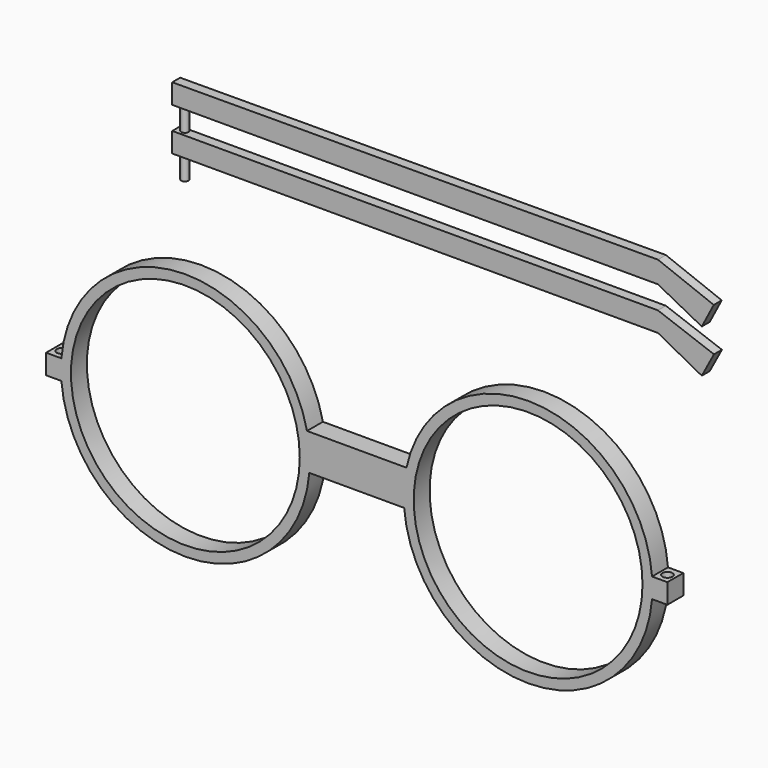
from build123d import *

# Parameters (mm, degrees)
F1_DEPTH  = 5.08
F2_R      = 29.21
F3_DEPTH  = 25.4
F4_R      = 1.27
F5_DEPTH  = 25.4
F7_DEPTH  = 2.54
F6_W      = 123.9972203185
F6_H      = 5.08
F8_R      = 0.9525
F9_DEPTH  = 5.588
F10_R     = 0.9525
F11_DEPTH = 5.588


with BuildPart() as f1:
    # F0 (on Front) → F1 (new body)
    with BuildSketch(Plane.XZ):
        with BuildLine():
            ThreePointArc((-3.7277518922, -2.6140995437), (-3.6469152678, -1.3081606084), (-3.6199544637, 0))
            ThreePointArc((-3.6199544637, 0), (-3.7945023837, 3.3246542598), (-4.3162269643, 6.6127534653))
            Line((-4.3162269643, 6.6127534653), (-3.7277518922, -2.6140995437))
        make_face()
        with BuildLine():
            ThreePointArc((-4.3162269643, 6.6127534653), (-3.7945023837, 3.3246542598), (-3.6199544637, 0))
            ThreePointArc((-3.6199544637, 0), (-3.6469152678, -1.3081606084), (-3.7277518922, -2.6140995437))
            Line((-3.7277518922, -2.6140995437), (20.4952979636, -2.6140995437))
            ThreePointArc((20.4952979636, -2.6140995437), (20.4518789383, 2.0208621982), (21.0837730357, 6.6127534653))
            Line((21.0837730357, 6.6127534653), (-4.3162269643, 6.6127534653))
        make_face()
        with BuildLine():
            Line((-3.7277518922, -2.6140995437), (-4.3162269643, 6.6127534653))
            ThreePointArc((-4.3162269643, 6.6127534653), (-37.4279123251, 31.6832338855), (-67.0181913814, 2.54))
            Line((-67.0181913814, 2.54), (-63.3099544637, 2.54))
            Line((-63.3099544637, 2.54), (-63.3099544637, -2.54))
            Line((-63.3099544637, -2.54), (-67.0181913814, -2.54))
            ThreePointArc((-67.0181913814, -2.54), (-35.4071268852, -31.7499782395), (-3.7277518922, -2.6140995437))
        make_face()
        with BuildLine():
            Line((-63.3099544637, 2.54), (-67.0181913814, 2.54))
            ThreePointArc((-67.0181913814, 2.54), (-67.1199544637, 0), (-67.0181913814, -2.54))
            Line((-67.0181913814, -2.54), (-63.3099544637, -2.54))
            Line((-63.3099544637, -2.54), (-63.3099544637, 2.54))
        make_face()
        with BuildLine():
            ThreePointArc((-67.0181913814, -2.54), (-67.1199544637, 0), (-67.0181913814, 2.54))
            Line((-67.0181913814, 2.54), (-70.9299544637, 2.54))
            Line((-70.9299544637, 2.54), (-70.9299544637, -2.54))
            Line((-70.9299544637, -2.54), (-67.0181913814, -2.54))
        make_face()
        with BuildLine():
            Line((20.4952979636, -2.6140995437), (21.0837730357, 6.6127534653))
            ThreePointArc((21.0837730357, 6.6127534653), (20.4518789383, 2.0208621982), (20.4952979636, -2.6140995437))
        make_face()
        with BuildLine():
            ThreePointArc((83.7857374528, 2.54), (54.1954583966, 31.6832338855), (21.0837730357, 6.6127534653))
            Line((21.0837730357, 6.6127534653), (20.4952979636, -2.6140995437))
            ThreePointArc((20.4952979636, -2.6140995437), (52.1746729567, -31.7499782395), (83.7857374528, -2.54))
            Line((83.7857374528, -2.54), (80.0775005351, -2.54))
            Line((80.0775005351, -2.54), (80.0775005351, 2.54))
            Line((80.0775005351, 2.54), (83.7857374528, 2.54))
        make_face()
        with BuildLine():
            Line((87.6975005351, 2.54), (83.7857374528, 2.54))
            ThreePointArc((83.7857374528, 2.54), (83.8620495637, 1.2710188556), (83.8875005351, 0))
            ThreePointArc((83.8875005351, 0), (83.8620495637, -1.2710188556), (83.7857374528, -2.54))
            Line((83.7857374528, -2.54), (87.6975005351, -2.54))
            Line((87.6975005351, -2.54), (87.6975005351, 2.54))
        make_face()
        with BuildLine():
            ThreePointArc((83.8875005351, 0), (83.8620495637, 1.2710188556), (83.7857374528, 2.54))
            Line((83.7857374528, 2.54), (80.0775005351, 2.54))
            Line((80.0775005351, 2.54), (80.0775005351, -2.54))
            Line((80.0775005351, -2.54), (83.7857374528, -2.54))
            ThreePointArc((83.7857374528, -2.54), (83.8620495637, -1.2710188556), (83.8875005351, 0))
        make_face()
    extrude(amount=F1_DEPTH)

    # F2 (on face) → F3 (cut)
    with BuildSketch(Plane.XZ.offset(5.08)):
        with Locations((-35.3699544637, 0)):
            Circle(F2_R)
        with Locations((52.1375005351, 0)):
            Circle(F2_R)
    extrude(amount=-F3_DEPTH, mode=Mode.SUBTRACT)

    # F4 (on face) → F5 (cut)
    with BuildSketch(Plane.XY.offset(2.54)):
        with Locations((-68.9740729225, -2.54)):
            Circle(F4_R)
        with Locations((85.7350602746, -2.603512723)):
            Circle(F4_R)
    extrude(amount=-F5_DEPTH, mode=Mode.SUBTRACT)


with BuildPart() as f7:
    # F6 (on Front) → F7 (new body)
    with BuildSketch(Plane.XZ):
        Polygon((83.2470193171, 72.5669202386), (-40.7502010014, 72.1036136825), (-40.7502010014, 67.0236136825), (83.2470193171, 67.0236136825), align=None)
        Polygon((97.5095197803, 67.0236136825), (83.2470193171, 72.5669202386), (83.2470193171, 67.0236136825), (94.4516537271, 61.1702154216), align=None)
    extrude(amount=F7_DEPTH)

    # F8 (on face) → F9 (join)
    with BuildSketch(Plane(origin=(0, 0, 67.0236136825), x_dir=(1, 0, 0), z_dir=(0, 0, -1))):
        with Locations((-38.5277010014, 1.27)):
            Circle(F8_R)
    extrude(amount=F9_DEPTH)


with BuildPart() as f7b:
    # F6 (on Front) → F7, piece 2 (new body)
    with BuildSketch(Plane.XZ):
        with Locations((21.2484091579, 58.6302154216)):
            Rectangle(F6_W, F6_H)
        Polygon((97.5606348715, 55.9378154216), (83.2470193171, 61.1702154216), (83.2470193171, 56.0902154216), (94.4516537271, 50.1114055285), align=None)
    extrude(amount=F7_DEPTH)

    # F10 (on face) → F11 (join)
    with BuildSketch(Plane(origin=(0, 0, 56.0902154216), x_dir=(1, 0, 0), z_dir=(0, 0, -1))):
        with Locations((-38.5277010014, 1.27)):
            Circle(F10_R)
    extrude(amount=F11_DEPTH)


solid = Compound([f1.part, f7.part, f7b.part])
